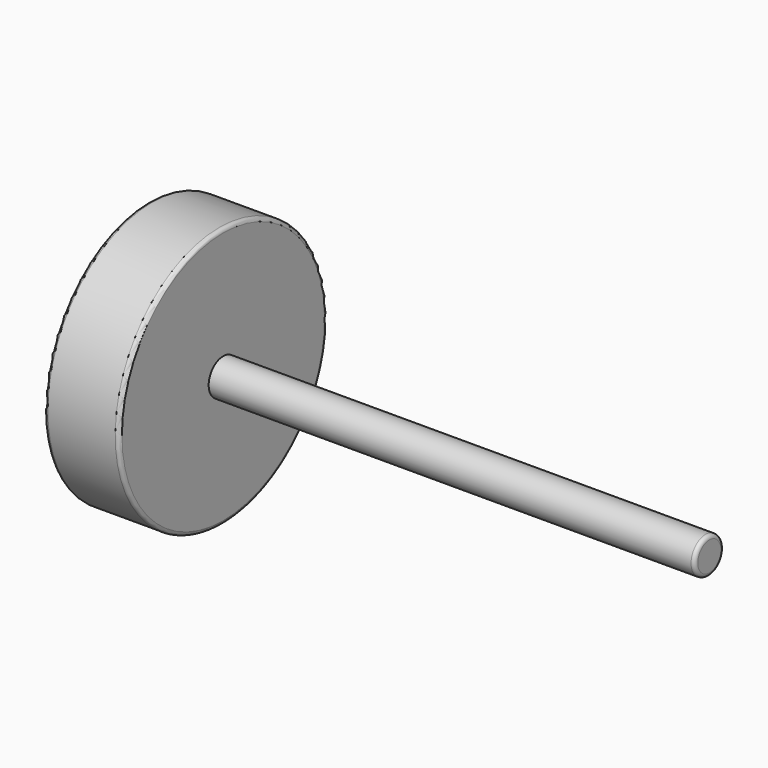
from build123d import *


with BuildPart() as f1:
    # F0 (on Front) → F1 (revolve)
    with BuildSketch(Plane.XZ):
        with BuildLine():
            Line((-171.500275, 338.630595), (-171.500275, 0))
            Line((-171.500275, 0), (1328.499725, 0))
            Line((1328.499725, 0), (1328.499725, 38.630595))
            ThreePointArc((1328.499725, 38.630595), (1325.570793, 45.701663), (1318.499725, 48.630595))
            Line((1318.499725, 48.630595), (28.499725, 48.630595))
            Line((28.499725, 48.630595), (28.499725, 338.630595))
            ThreePointArc((28.499725, 338.630595), (25.570793, 345.701663), (18.499725, 348.630595))
            Line((18.499725, 348.630595), (-161.500275, 348.630595))
            ThreePointArc((-161.500275, 348.630595), (-168.571343, 345.701663), (-171.500275, 338.630595))
        make_face()
    revolve(axis=Axis((578.499725, 0, 0), (-1, 0, 0)))


solid = f1.part
